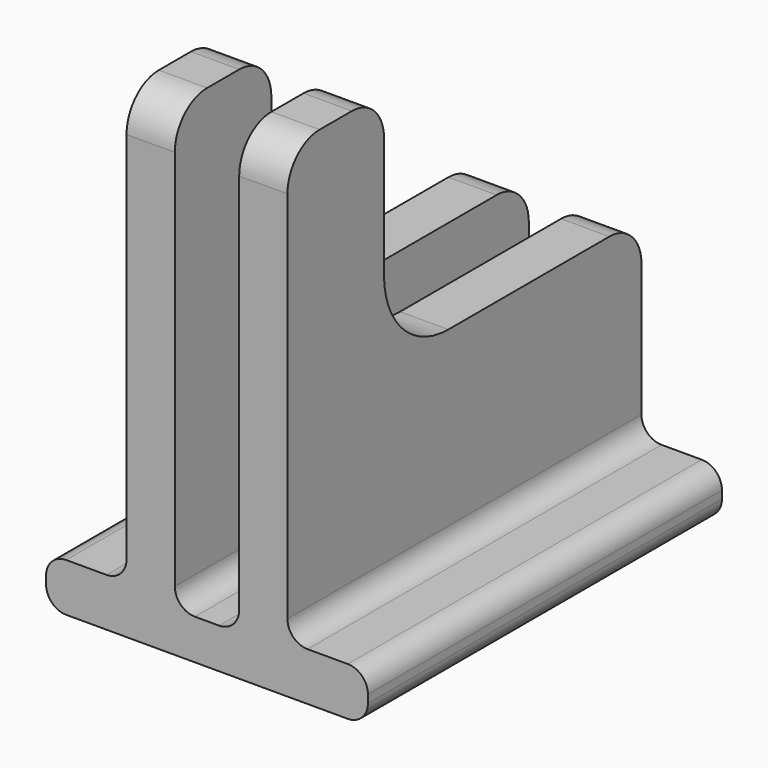
from build123d import *

# Parameters (mm, degrees)
F1_DEPTH = 3.81
F2_W     = 34.925
F2_H     = 3.81
F3_DEPTH = 6.35
F4_W     = 34.925
F4_H     = 3.175
F5_DEPTH = 2.54
F6_R     = 1.5875


with BuildPart() as f1:
    # F0 (on Right) → F1 (new body)
    with BuildSketch(Plane.YZ):
        with BuildLine():
            Line((0, 34.925), (0, 0))
            Line((0, 0), (34.925, 0))
            Line((34.925, 0), (34.925, 15.875))
            ThreePointArc((34.925, 15.875), (33.995064, 18.120064), (31.75, 19.05))
            Line((31.75, 19.05), (15.875, 19.05))
            ThreePointArc((15.875, 19.05), (11.384872, 20.909872), (9.525, 25.4))
            Line((9.525, 25.4), (9.525, 34.925))
            ThreePointArc((9.525, 34.925), (8.595064, 37.170064), (6.35, 38.1))
            Line((6.35, 38.1), (3.175, 38.1))
            ThreePointArc((3.175, 38.1), (0.929936, 37.170064), (0, 34.925))
        make_face()
    extrude(amount=F1_DEPTH)

    # F2 (on face) → F3 (join)
    with BuildSketch(Plane.YZ.offset(3.81)):
        with Locations((17.4625, 1.905)):
            Rectangle(F2_W, F2_H)
    extrude(amount=F3_DEPTH)

    # F4 (on face) → F5 (join)
    with BuildSketch(Plane(origin=(0, 0, 0), x_dir=(0, -1, 0), z_dir=(-1, 0, 0))):
        with Locations((-17.4625, 1.5875)):
            Rectangle(F4_W, F4_H)
    extrude(amount=F5_DEPTH)

    # F6
    f6_edges = [f1.edges().sort_by_distance(p)[0] for p in [
        (3.81, 17.4625, 3.81),
        (10.16, 17.4625, 3.81),
        (0, 17.4625, 3.175),
        (10.16, 17.4625, 0),
    ]]
    fillet(f6_edges, radius=F6_R)

    # F7: F1 across face


with BuildPart() as f1_1:
    add(f1.part)
    add(f1.part.mirror(Plane(origin=(-2.54, 17.4625, 1.5875), x_dir=(0, -1, 0), z_dir=(-1, 0, 0))))


solid = f1_1.part
